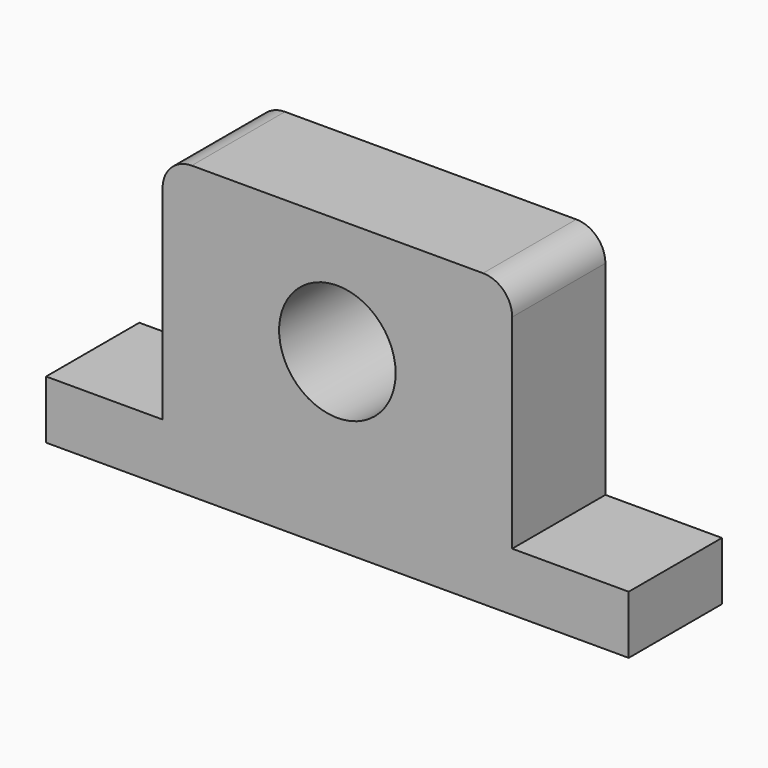
from build123d import *

# Parameters (mm, degrees)
F0_R     = 12.7
F1_DEPTH = 12.7


with BuildPart() as f1:
    # F0 (on Front) → F1 (new body, symmetric)
    with BuildSketch(Plane.XZ):
        with BuildLine():
            Line((-38.1, 19.05), (-38.1, -25.4))
            Line((-38.1, -25.4), (38.1, -25.4))
            Line((38.1, -25.4), (38.1, 19.05))
            ThreePointArc((38.1, 19.05), (36.240128, 23.540128), (31.75, 25.4))
            Line((31.75, 25.4), (-31.75, 25.4))
            ThreePointArc((-31.75, 25.4), (-36.240128, 23.540128), (-38.1, 19.05))
        make_face()
        Circle(F0_R, mode=Mode.SUBTRACT)
        Polygon((-38.1, -25.4), (-63.5, -25.4), (-63.5, -38.1), (63.5, -38.1), (63.5, -25.4), (38.1, -25.4), align=None)
    extrude(amount=F1_DEPTH, both=True)


solid = f1.part
